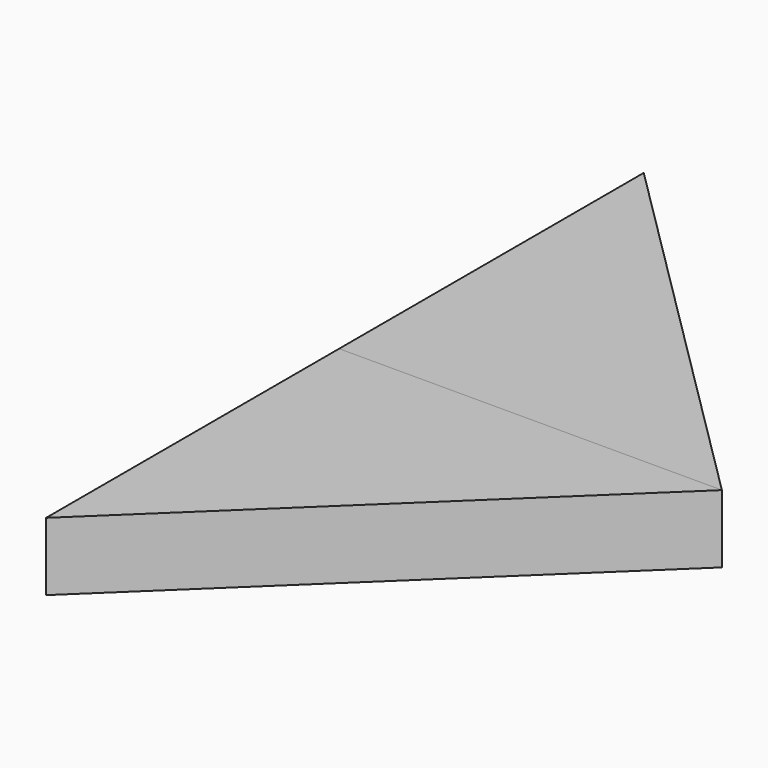
from build123d import *

# Parameters (mm, degrees)
F2_DEPTH = 13.4864524007


with BuildPart() as f2:
    # F0 (on Top) → F2 (new body)
    with BuildSketch(Plane.XY):
        Polygon((0, 0), (75.8739262819, 0), (0, 75.4716470838), align=None)
    extrude(amount=-F2_DEPTH)


with BuildPart() as f2b:
    # F1 (on face) → F2, piece 2 (new body)
    with BuildSketch(Plane.XY):
        Polygon((0, 0), (0, -72.5966691971), (75.8739262819, 0), align=None)
    extrude(amount=-F2_DEPTH)


solid = Compound([f2.part, f2b.part])
